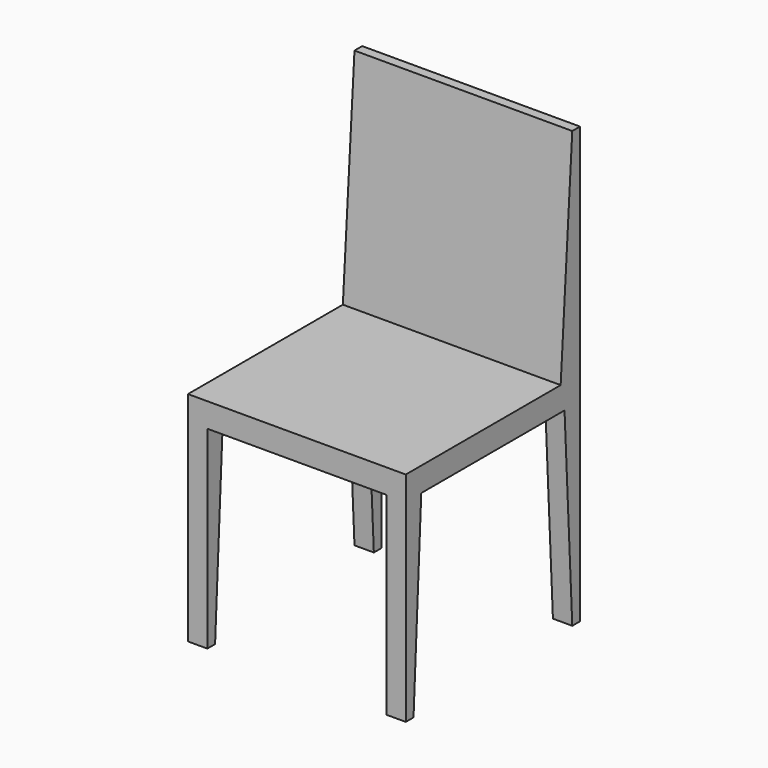
from build123d import *

# Parameters (mm, degrees)
F0_W      = 450
F0_H      = 450
F1_DEPTH  = 50
F2_W      = 40
F2_H      = 40
F3_DEPTH  = 400
F4_W      = 40
F4_H      = 40
F5_DEPTH  = 400
F6_W      = 40
F6_H      = 40
F7_DEPTH  = 400
F8_W      = 40
F8_H      = 40
F9_DEPTH  = 400
F10_W     = 450
F10_H     = 50
F11_DEPTH = 450
F13_DEPTH = 450
F15_DEPTH = 450.001
F17_DEPTH = 450.001
F18_DEPTH = 100
F19_DEPTH = 100


with BuildPart() as f1:
    # F0 (on Top) → F1 (new body)
    with BuildSketch(Plane.XY):
        with Locations((225, 225)):
            Rectangle(F0_W, F0_H)
    extrude(amount=F1_DEPTH)

    # F2 (on face) → F3 (join)
    with BuildSketch(Plane(origin=(0, 0, 0), x_dir=(1, 0, 0), z_dir=(0, 0, -1))):
        with Locations((20, -430)):
            Rectangle(F2_W, F2_H)
    extrude(amount=F3_DEPTH)

    # F4 (on face) → F5 (join)
    with BuildSketch(Plane(origin=(0, 0, 0), x_dir=(1, 0, 0), z_dir=(0, 0, -1))):
        with Locations((20, -20)):
            Rectangle(F4_W, F4_H)
    extrude(amount=F5_DEPTH)

    # F6 (on face) → F7 (join)
    with BuildSketch(Plane(origin=(0, 0, 0), x_dir=(1, 0, 0), z_dir=(0, 0, -1))):
        with Locations((430, -430)):
            Rectangle(F6_W, F6_H)
        with Locations((430, -430)):
            Rectangle(F6_W, F6_H)
    extrude(amount=F7_DEPTH)

    # F8 (on face) → F9 (join)
    with BuildSketch(Plane(origin=(0, 0, 0), x_dir=(1, 0, 0), z_dir=(0, 0, -1))):
        with Locations((430, -20)):
            Rectangle(F8_W, F8_H)
    extrude(amount=F9_DEPTH)

    # F10 (on face) → F11 (join)
    with BuildSketch(Plane.XY.offset(50)):
        with Locations((225, 425)):
            Rectangle(F10_W, F10_H)
    extrude(amount=F11_DEPTH)

    # F12 (on face) → F13 (cut)
    with BuildSketch(Plane.YZ.offset(450)):
        Polygon((400, 500), (400, 50), (430, 500), align=None)
    extrude(amount=-F13_DEPTH, mode=Mode.SUBTRACT)

    # F14 (on face) → F15 (cut, through all)
    with BuildSketch(Plane(origin=(0, 0, 0), x_dir=(0, -1, 0), z_dir=(-1, 0, 0))):
        Polygon((-410, -400), (-410, 0), (-430, -400), align=None)
    extrude(amount=-F15_DEPTH, mode=Mode.SUBTRACT)

    # F16 (on face) → F17 (cut, through all)
    with BuildSketch(Plane(origin=(0, 0, 0), x_dir=(0, -1, 0), z_dir=(-1, 0, 0))):
        Polygon((-20, -400), (-40, 0), (-40, -400), align=None)
    extrude(amount=-F17_DEPTH, mode=Mode.SUBTRACT)

    # F18 (add): a face of the model
    f18_faces = [f1.faces().sort_by_distance(p)[0] for p in [
        (225, 200, 50),
    ]]
    extrude(f18_faces, amount=F18_DEPTH)

    # F19 (cut): a face of the model
    f19_faces = [f1.faces().sort_by_distance(p)[0] for p in [
        (225, 200, 150),
    ]]
    extrude(f19_faces, amount=-F19_DEPTH, mode=Mode.SUBTRACT)


solid = f1.part
